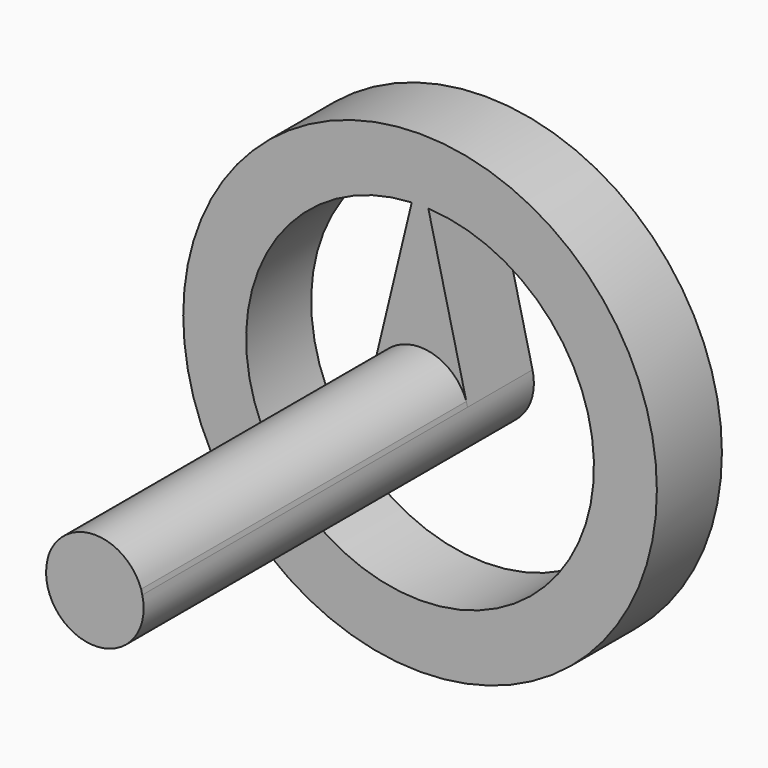
from build123d import *

# Parameters (mm, degrees)
F0_R     = 3.69957
F1_DEPTH = 1.27
F3_DEPTH = 6.35


with BuildPart() as f1:
    # F0 (on Front) → F1 (new body)
    with BuildSketch(Plane.XZ):
        Circle(F0_R)
        with BuildLine():
            ThreePointArc((0.129266, 2.713735), (0, -2.716812), (-0.129266, 2.713735))
            Line((-0.129266, 2.713735), (-0.74086, 0.17874))
            ThreePointArc((-0.74086, 0.17874), (0, -0.762117), (0.74086, 0.17874))
            Line((0.74086, 0.17874), (0.129266, 2.713735))
        make_face(mode=Mode.SUBTRACT)
    extrude(amount=F1_DEPTH)

    # F2 (on face) → F3 (join)
    with BuildSketch(Plane.XZ.offset(1.27)):
        with BuildLine():
            Line((0.74086, 0.17874), (0.722795, 0.253619))
            ThreePointArc((0.722795, 0.253619), (0, 0.765999), (-0.722795, 0.253619))
            Line((-0.722795, 0.253619), (-0.74086, 0.17874))
            ThreePointArc((-0.74086, 0.17874), (0, -0.762117), (0.74086, 0.17874))
        make_face()
    extrude(amount=F3_DEPTH)


solid = f1.part
